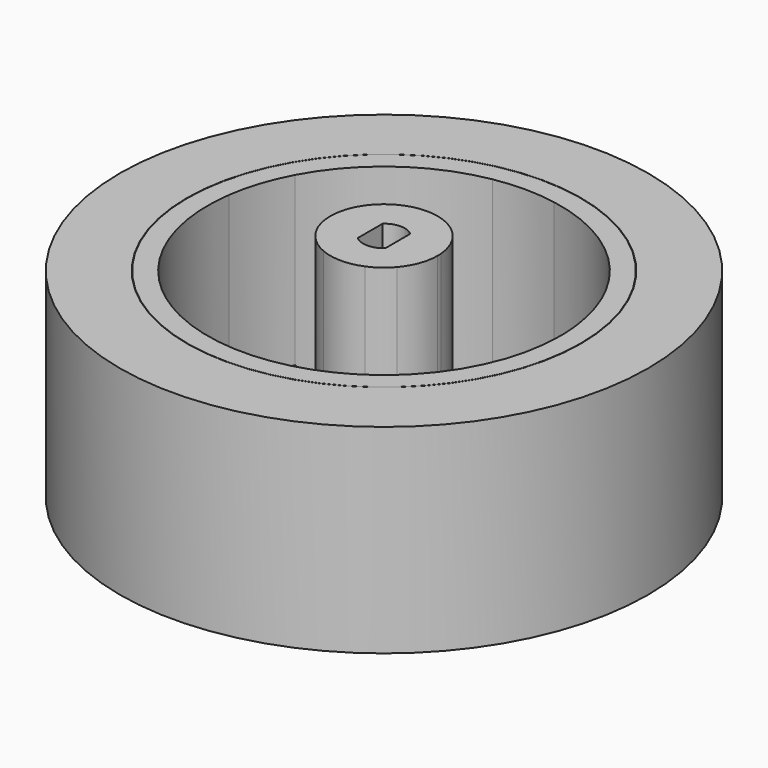
from build123d import *

# Parameters (mm, degrees)
F2_DEPTH = 30
F0_R     = 25.655
F3_DEPTH = 26
F4_DEPTH = 4.15156
F1_R     = 34.445
F1_R_2   = 25.7
F5_DEPTH = 26


with BuildPart() as f2:
    # F0 (on Top) → F2 (new body)
    with BuildSketch(Plane.XY):
        with BuildLine():
            ThreePointArc((7, 0), (6.994466, 0.278279), (6.977875, 0.556118))
            ThreePointArc((6.977875, 0.556118), (6.658558, 2.159539), (5.976021, 3.645158))
            ThreePointArc((5.976021, 3.645158), (4.117541, 5.660906), (1.627382, 6.808203))
            ThreePointArc((1.627382, 6.808203), (0.003764, 6.999999), (-1.62006, 6.809949))
            ThreePointArc((-1.62006, 6.809949), (-4.111451, 5.665331), (-5.972097, 3.651583))
            ThreePointArc((-5.972097, 3.651583), (-6.656231, 2.166699), (-6.977272, 0.563622))
            ThreePointArc((-6.977272, 0.563622), (-6.658558, -2.159539), (-5.318341, -4.5514))
            ThreePointArc((-5.318341, -4.5514), (-4.117541, -5.660906), (-2.692132, -6.461612))
            ThreePointArc((-2.692132, -6.461612), (-0.003764, -6.999999), (2.685181, -6.464503))
            ThreePointArc((2.685181, -6.464503), (4.111451, -5.665331), (5.313443, -4.557117))
            ThreePointArc((5.313443, -4.557117), (6.564834, -2.429598), (7, 0))
        make_face()
        with BuildLine():
            ThreePointArc((1.8, -2.032542), (0, -2.715), (-1.8, -2.032542))
            Line((-1.8, -2.032542), (-1.8, 2.032542))
            ThreePointArc((-1.8, 2.032542), (0, 2.715), (1.8, 2.032542))
            Line((1.8, 2.032542), (1.8, -2.032542))
        make_face(mode=Mode.SUBTRACT)
    extrude(amount=F2_DEPTH)


with BuildPart() as f3:
    # F0 (on Top) → F3 (new body)
    with BuildSketch(Plane.XY):
        Circle(F0_R)
        with BuildLine():
            ThreePointArc((22.787196, 3.121491), (22.946737, 1.564368), (23, 0))
            ThreePointArc((23, 0), (21.326207, -8.61353), (16.548444, -15.973384))
            ThreePointArc((16.548444, -15.973384), (13.488694, -18.629416), (10.010345, -20.707317))
            ThreePointArc((10.010345, -20.707317), (-0.037514, -22.999969), (-10.07784, -20.674553))
            ThreePointArc((-10.07784, -20.674553), (-13.549392, -18.585316), (-16.600462, -15.919317))
            ThreePointArc((-16.600462, -15.919317), (-21.885863, -7.071704), (-22.776892, 3.195807))
            ThreePointArc((-22.776892, 3.195807), (-21.862678, 7.143059), (-20.269995, 10.868638))
            ThreePointArc((-20.269995, 10.868638), (-13.488694, 18.629416), (-3.999053, 22.64967))
            ThreePointArc((-3.999053, 22.64967), (0.037514, 22.999969), (4.072916, 22.636505))
            ThreePointArc((4.072916, 22.636505), (13.549392, 18.585316), (20.305341, 10.802459))
            ThreePointArc((20.305341, 10.802459), (21.885863, 7.071704), (22.787196, 3.121491))
        make_face(mode=Mode.SUBTRACT)
    extrude(amount=F3_DEPTH)


with BuildPart() as f4:
    # F0 (on Top) → F4 (new body)
    with BuildSketch(Plane.XY):
        with BuildLine():
            Line((1.627382, 6.808203), (4.072916, 22.636505))
            ThreePointArc((4.072916, 22.636505), (0.037514, 22.999969), (-3.999053, 22.64967))
            Line((-3.999053, 22.64967), (-1.62006, 6.809949))
            ThreePointArc((-1.62006, 6.809949), (0.003764, 6.999999), (1.627382, 6.808203))
        make_face()
        with BuildLine():
            ThreePointArc((10.010345, -20.707317), (13.488694, -18.629416), (16.548444, -15.973384))
            Line((16.548444, -15.973384), (5.313443, -4.557117))
            ThreePointArc((5.313443, -4.557117), (4.111451, -5.665331), (2.685181, -6.464503))
            Line((2.685181, -6.464503), (10.010345, -20.707317))
        make_face()
        with BuildLine():
            ThreePointArc((-16.600462, -15.919317), (-13.549392, -18.585316), (-10.07784, -20.674553))
            Line((-10.07784, -20.674553), (-2.692132, -6.461612))
            ThreePointArc((-2.692132, -6.461612), (-4.117541, -5.660906), (-5.318341, -4.5514))
            Line((-5.318341, -4.5514), (-16.600462, -15.919317))
        make_face()
        with BuildLine():
            Line((-5.972097, 3.651583), (-20.269995, 10.868638))
            ThreePointArc((-20.269995, 10.868638), (-21.862678, 7.143059), (-22.776892, 3.195807))
            Line((-22.776892, 3.195807), (-6.977272, 0.563622))
            ThreePointArc((-6.977272, 0.563622), (-6.656231, 2.166699), (-5.972097, 3.651583))
        make_face()
        with BuildLine():
            Line((6.977875, 0.556118), (22.787196, 3.121491))
            ThreePointArc((22.787196, 3.121491), (21.885863, 7.071704), (20.305341, 10.802459))
            Line((20.305341, 10.802459), (5.976021, 3.645158))
            ThreePointArc((5.976021, 3.645158), (6.658558, 2.159539), (6.977875, 0.556118))
        make_face()
    extrude(amount=F4_DEPTH)


with BuildPart() as f5:
    # F1 (on Top) → F5 (new body)
    with BuildSketch(Plane.XY):
        Circle(F1_R)
        Circle(F1_R_2, mode=Mode.SUBTRACT)
    extrude(amount=F5_DEPTH)


solid = Compound([f2.part, f3.part, f4.part, f5.part])
